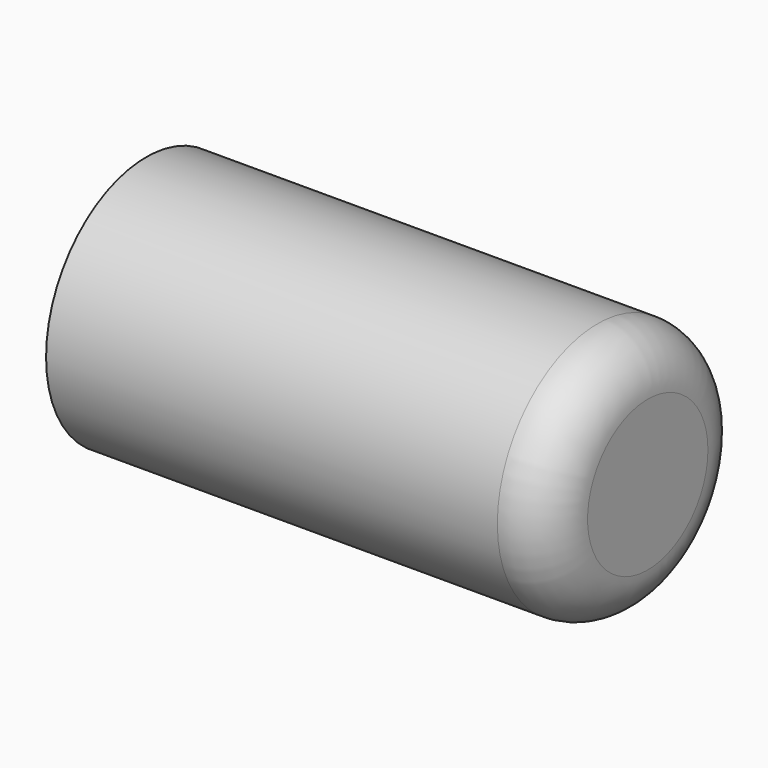
from build123d import *

# Parameters (mm, degrees)
F0_R     = 6.35
F1_DEPTH = 25.4
F2_R     = 4.445
F3_DEPTH = 17.78
F4_R     = 2.54


with BuildPart() as f1:
    # F0 (on Right) → F1 (new body)
    with BuildSketch(Plane.YZ):
        Circle(F0_R)
    extrude(amount=F1_DEPTH)

    # F2 (on face) → F3 (cut)
    with BuildSketch(Plane(origin=(0, 0, 0), x_dir=(0, -1, 0), z_dir=(-1, 0, 0))):
        Circle(F2_R)
    extrude(amount=-F3_DEPTH, mode=Mode.SUBTRACT)

    # F4
    f4_edges = [f1.edges().sort_by_distance(p)[0] for p in [
        (25.4, -6.35, 0),
    ]]
    fillet(f4_edges, radius=F4_R)


solid = f1.part
